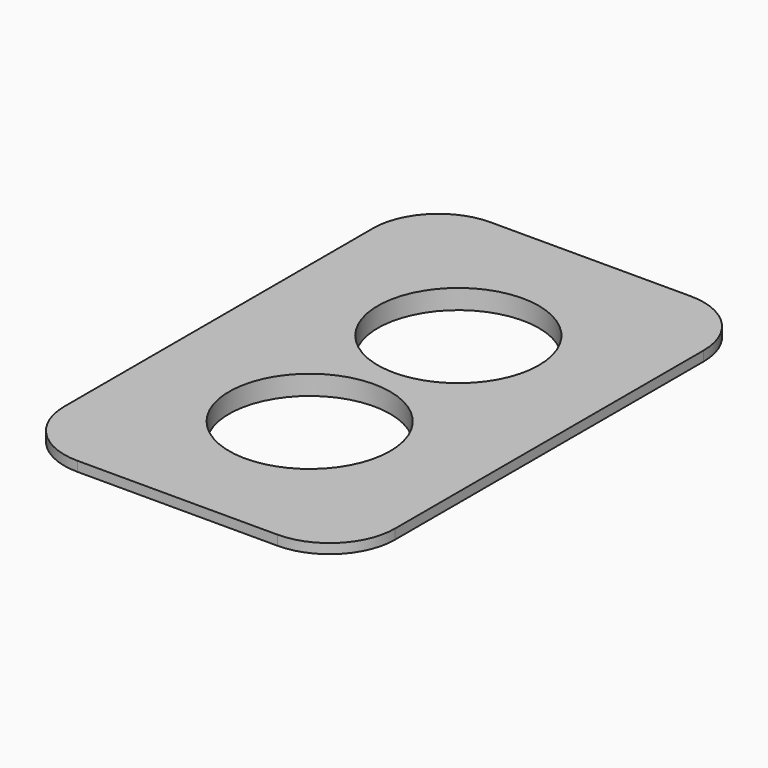
from build123d import *

# Parameters (mm, degrees)
F0_W     = 34.7
F0_H     = 63.2
F0_R     = 12.35
F1_DEPTH = 3
F2_R     = 2
F3_T     = -2.4
F4_R     = 12.35
F5_DEPTH = 1.5


with BuildPart() as f1:
    # F0 (on Top) → F1 (new body)
    with BuildSketch(Plane.XY):
        Rectangle(F0_W, F0_H)
        with Locations((0, -14.25)):
            Circle(F0_R, mode=Mode.SUBTRACT)
        with Locations((0, 14.25)):
            Circle(F0_R, mode=Mode.SUBTRACT)
    extrude(amount=F1_DEPTH)

    # F2
    f2_edges = [f1.edges().sort_by_distance(p)[0] for p in [
        (-17.35, 31.6, 1.5),
        (-17.35, -31.6, 1.5),
        (17.35, -31.6, 1.5),
        (17.35, 31.6, 1.5),
    ]]
    fillet(f2_edges, radius=F2_R)

    # F3
    f3_openings = [f1.faces().sort_by_distance(p)[0] for p in [
        (0, 0, 0),
    ]]
    offset(amount=F3_T, openings=f3_openings)

    # F4 (on face) → F5 (join)
    with BuildSketch(Plane.XY.offset(3)):
        with BuildLine():
            Line((25.35, -29.6), (25.35, 29.6))
            ThreePointArc((25.35, 29.6), (22.4210678119, 36.6710678119), (15.35, 39.6))
            Line((15.35, 39.6), (-15.35, 39.6))
            ThreePointArc((-15.35, 39.6), (-22.4210678119, 36.6710678119), (-25.35, 29.6))
            Line((-25.35, 29.6), (-25.35, -29.6))
            ThreePointArc((-25.35, -29.6), (-22.4210678119, -36.6710678119), (-15.35, -39.6))
            Line((-15.35, -39.6), (15.35, -39.6))
            ThreePointArc((15.35, -39.6), (22.4210678119, -36.6710678119), (25.35, -29.6))
        make_face()
        with Locations((0, -14.25)):
            Circle(F4_R, mode=Mode.SUBTRACT)
        with Locations((0, 14.25)):
            Circle(F4_R, mode=Mode.SUBTRACT)
    extrude(amount=-F5_DEPTH)


solid = f1.part
